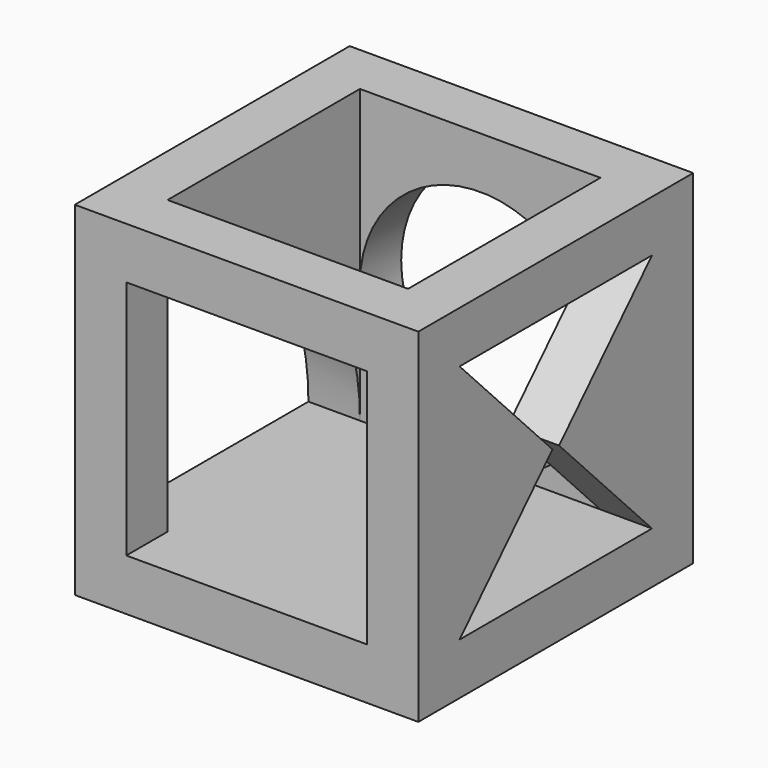
from build123d import *

# Parameters (mm, degrees)
F0_W      = 20
F0_H      = 20
F1_DEPTH  = 10
F2_T      = -3
F3_R      = 7
F4_DEPTH  = 6
F5_W      = 14
F5_H      = 14
F6_DEPTH  = 6
F8_DEPTH  = 6
F10_DEPTH = 6


with BuildPart() as f1:
    # F0 (on Front) → F1 (new body, symmetric)
    with BuildSketch(Plane.XZ):
        Rectangle(F0_W, F0_H)
    extrude(amount=F1_DEPTH, both=True)

    # F2
    f2_openings = [f1.faces().sort_by_distance(p)[0] for p in [
        (0, 0, 10),
    ]]
    offset(amount=F2_T, openings=f2_openings)

    # F3 (on face) → F4 (cut)
    with BuildSketch(Plane(origin=(0, 10, 0), x_dir=(-1, 0, 0), z_dir=(0, 1, 0))):
        Circle(F3_R)
    extrude(amount=-F4_DEPTH, mode=Mode.SUBTRACT)

    # F5 (on face) → F6 (cut)
    with BuildSketch(Plane.XZ.offset(10)):
        Rectangle(F5_W, F5_H)
    extrude(amount=-F6_DEPTH, mode=Mode.SUBTRACT)

    # F7 (on face) → F8 (cut)
    with BuildSketch(Plane.YZ.offset(10)):
        Polygon((-0.240179, 0), (-7, -7), (7, -7), (0.240179, 0), (7, 7), (-7, 7), align=None)
        Polygon((-0.240179, 0), (-7, -7), (7, -7), (0.240179, 0), (7, 7), (-7, 7), align=None)
    extrude(amount=-F8_DEPTH, mode=Mode.SUBTRACT)

    # F9 (on face) → F10 (cut)
    with BuildSketch(Plane(origin=(-10, 0, 0), x_dir=(0, -1, 0), z_dir=(-1, 0, 0))):
        with BuildLine():
            ThreePointArc((7, 7), (-2.899495, 2.899495), (-7, -7))
            Line((-7, -7), (7, -7))
            Line((7, -7), (7, 7))
        make_face()
    extrude(amount=-F10_DEPTH, mode=Mode.SUBTRACT)


solid = f1.part
